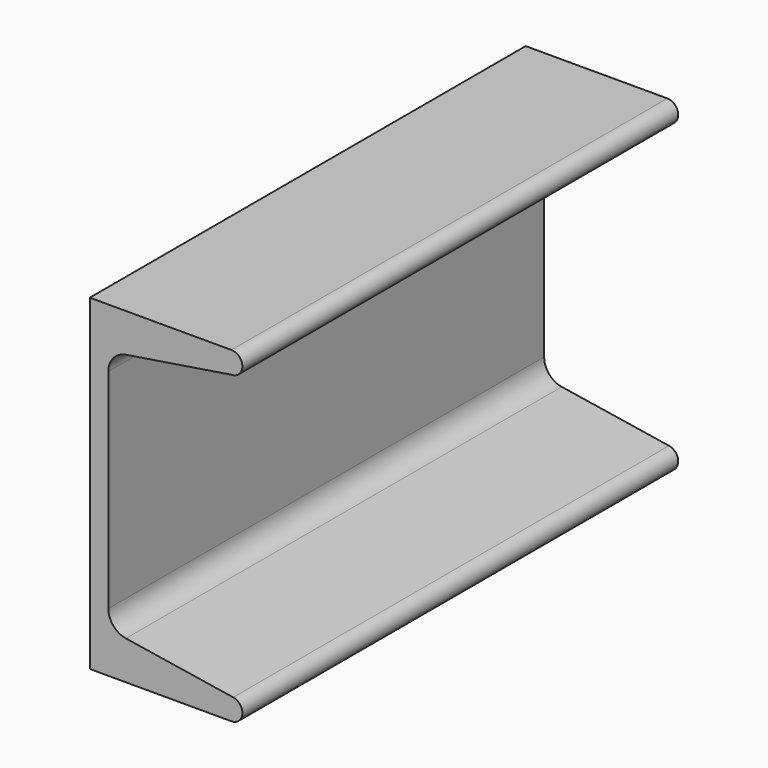
from build123d import *

# Parameters (mm, degrees)
F1_DEPTH = 127


with BuildPart() as f1:
    # F0 (on Front) → F1 (new body)
    with BuildSketch(Plane.XZ):
        with BuildLine():
            Line((33.02, 76.2), (0, 76.2))
            Line((0, 76.2), (0, 0))
            Line((0, 0), (33.02, 0))
            ThreePointArc((33.02, 0), (35.5582, 2.337577), (33.423622, 5.048721))
            Line((33.423622, 5.048721), (8.410474, 9.010414))
            ThreePointArc((8.410474, 9.010414), (5.480366, 10.651353), (4.318, 13.802085))
            Line((4.318, 13.802085), (4.318, 62.430563))
            ThreePointArc((4.318, 62.430563), (5.480366, 65.581295), (8.410474, 67.222234))
            Line((8.410474, 67.222234), (33.02, 71.12))
            ThreePointArc((33.02, 71.12), (35.56, 73.66), (33.02, 76.2))
        make_face()
    extrude(amount=F1_DEPTH)


solid = f1.part
